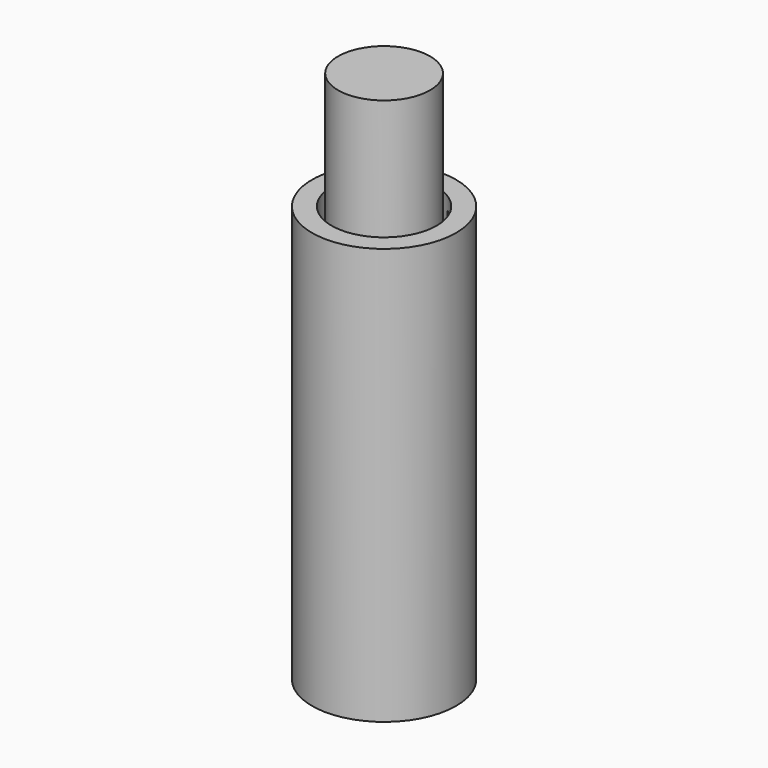
from build123d import *

# Parameters (mm, degrees)
CYLINDER_R        = 2
CYLINDER_DEPTH    = 60
CYLINDER001_R     = 2
CYLINDER001_DEPTH = 60
CYLINDER002_R     = 2
CYLINDER002_DEPTH = 60
CYLINDER003_R     = 2
CYLINDER003_DEPTH = 60
CYLINDER004_R     = 7.071
CYLINDER004_DEPTH = 80
CYLINDER005_R     = 2
CYLINDER005_DEPTH = 60
CYLINDER006_R     = 2
CYLINDER006_DEPTH = 60
CYLINDER007_R     = 2
CYLINDER007_DEPTH = 60
CYLINDER008_R     = 2
CYLINDER008_DEPTH = 60
CYLINDER010_R     = 8.071
CYLINDER010_DEPTH = 80
CYLINDER009_R     = 11.071
CYLINDER009_DEPTH = 64


with BuildPart() as cylinder:
    # Cylinder → Cylinder (new body)
    with BuildSketch(Plane.XY):
        Circle(CYLINDER_R)
    extrude(amount=CYLINDER_DEPTH)


with BuildPart() as cylinder001:
    # Cylinder001 → Cylinder001 (new body)
    with BuildSketch(Plane(origin=(0, 10, 0), x_dir=(1, 0, 0), z_dir=(0, 0, 1))):
        Circle(CYLINDER001_R)
    extrude(amount=CYLINDER001_DEPTH)


with BuildPart() as cylinder002:
    # Cylinder002 → Cylinder002 (new body)
    with BuildSketch(Plane(origin=(10, 0, 0), x_dir=(1, 0, 0), z_dir=(0, 0, 1))):
        Circle(CYLINDER002_R)
    extrude(amount=CYLINDER002_DEPTH)


with BuildPart() as cylinder003:
    # Cylinder003 → Cylinder003 (new body)
    with BuildSketch(Plane(origin=(10, 10, 0), x_dir=(1, 0, 0), z_dir=(0, 0, 1))):
        Circle(CYLINDER003_R)
    extrude(amount=CYLINDER003_DEPTH)


with BuildPart() as cut003:
    # Cylinder004 → Cylinder004 (new body)
    with BuildSketch(Plane(origin=(5, 5, 0), x_dir=(1, 0, 0), z_dir=(0, 0, 1))):
        Circle(CYLINDER004_R)
    extrude(amount=CYLINDER004_DEPTH)

    # Cut: cut Cylinder003
    add(cylinder003.part, mode=Mode.SUBTRACT)

    # Cut001: cut Cylinder002
    add(cylinder002.part, mode=Mode.SUBTRACT)

    # Cut002: cut Cylinder001
    add(cylinder001.part, mode=Mode.SUBTRACT)

    # Cut003: cut Cylinder
    add(cylinder.part, mode=Mode.SUBTRACT)


with BuildPart() as cylinder005:
    # Cylinder005 → Cylinder005 (new body)
    with BuildSketch(Plane.XY):
        Circle(CYLINDER005_R)
    extrude(amount=CYLINDER005_DEPTH)


with BuildPart() as cylinder006:
    # Cylinder006 → Cylinder006 (new body)
    with BuildSketch(Plane(origin=(0, 10, 0), x_dir=(1, 0, 0), z_dir=(0, 0, 1))):
        Circle(CYLINDER006_R)
    extrude(amount=CYLINDER006_DEPTH)


with BuildPart() as cylinder007:
    # Cylinder007 → Cylinder007 (new body)
    with BuildSketch(Plane(origin=(10, 0, 0), x_dir=(1, 0, 0), z_dir=(0, 0, 1))):
        Circle(CYLINDER007_R)
    extrude(amount=CYLINDER007_DEPTH)


with BuildPart() as cylinder008:
    # Cylinder008 → Cylinder008 (new body)
    with BuildSketch(Plane(origin=(10, 10, 0), x_dir=(1, 0, 0), z_dir=(0, 0, 1))):
        Circle(CYLINDER008_R)
    extrude(amount=CYLINDER008_DEPTH)


with BuildPart() as cylinder010:
    # Cylinder010 → Cylinder010 (new body)
    with BuildSketch(Plane(origin=(5, 5, -3), x_dir=(1, 0, 0), z_dir=(0, 0, 1))):
        Circle(CYLINDER010_R)
    extrude(amount=CYLINDER010_DEPTH)


with BuildPart() as cut008:
    # Cylinder009 → Cylinder009 (new body)
    with BuildSketch(Plane(origin=(5, 5, -2), x_dir=(1, 0, 0), z_dir=(0, 0, 1))):
        Circle(CYLINDER009_R)
    extrude(amount=CYLINDER009_DEPTH)

    # Cut004: cut Cylinder010
    add(cylinder010.part, mode=Mode.SUBTRACT)

    # Cut005: cut Cylinder008
    add(cylinder008.part, mode=Mode.SUBTRACT)

    # Cut006: cut Cylinder007
    add(cylinder007.part, mode=Mode.SUBTRACT)

    # Cut007: cut Cylinder006
    add(cylinder006.part, mode=Mode.SUBTRACT)

    # Cut008: cut Cylinder005
    add(cylinder005.part, mode=Mode.SUBTRACT)


solid = Compound([cut003.part, cut008.part])
